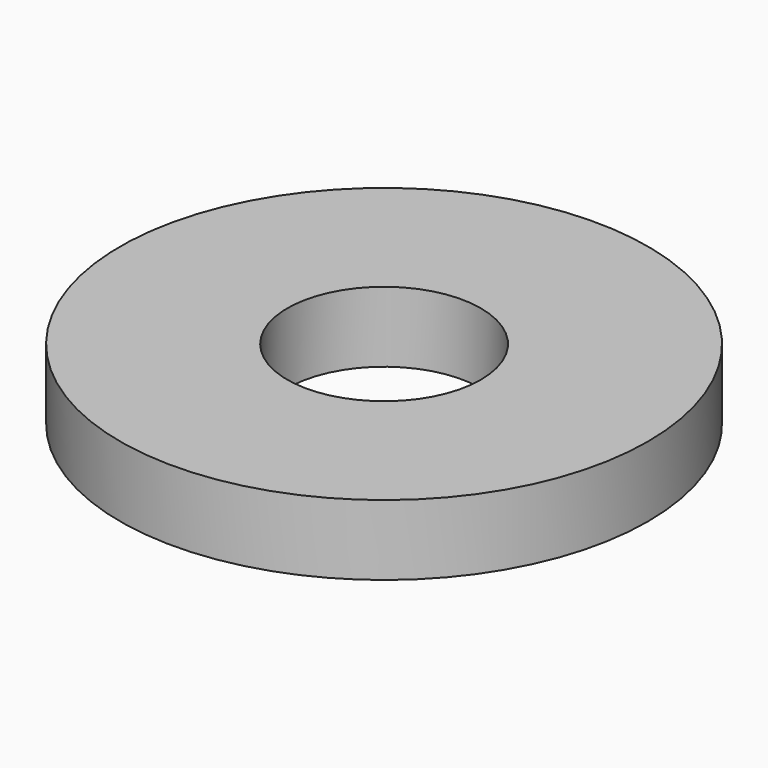
from build123d import *

# Parameters (mm, degrees)
SKETCH_R   = 9.525
SKETCH_R_2 = 3.4925
PAD_DEPTH  = 2.54


with BuildPart() as part:
    # Sketch → Pad (new body)
    with BuildSketch(Plane.XY):
        Circle(SKETCH_R)
        Circle(SKETCH_R_2, mode=Mode.SUBTRACT)
    extrude(amount=PAD_DEPTH)


solid = part.part
